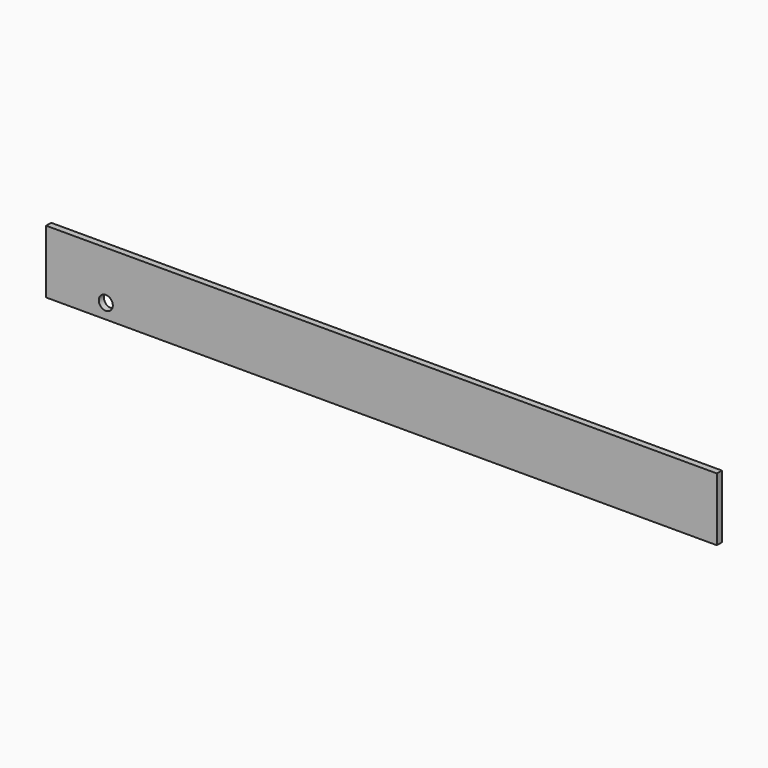
from build123d import *

# Parameters (mm, degrees)
F0_W     = 1910
F0_H     = 180
F1_DEPTH = 9
F2_R     = 20
F3_DEPTH = 25


with BuildPart() as f1:
    # F0 (on Front) → F1 (new body, symmetric)
    with BuildSketch(Plane.XZ):
        with Locations((335.793609, -52.415333)):
            Rectangle(F0_W, F0_H)
    extrude(amount=F1_DEPTH, both=True)

    # F2 (on face) → F3 (cut)
    with BuildSketch(Plane.XZ.offset(9)):
        with Locations((-449.206391, -100.615333)):
            Circle(F2_R)
    extrude(amount=-F3_DEPTH, mode=Mode.SUBTRACT)


solid = f1.part
